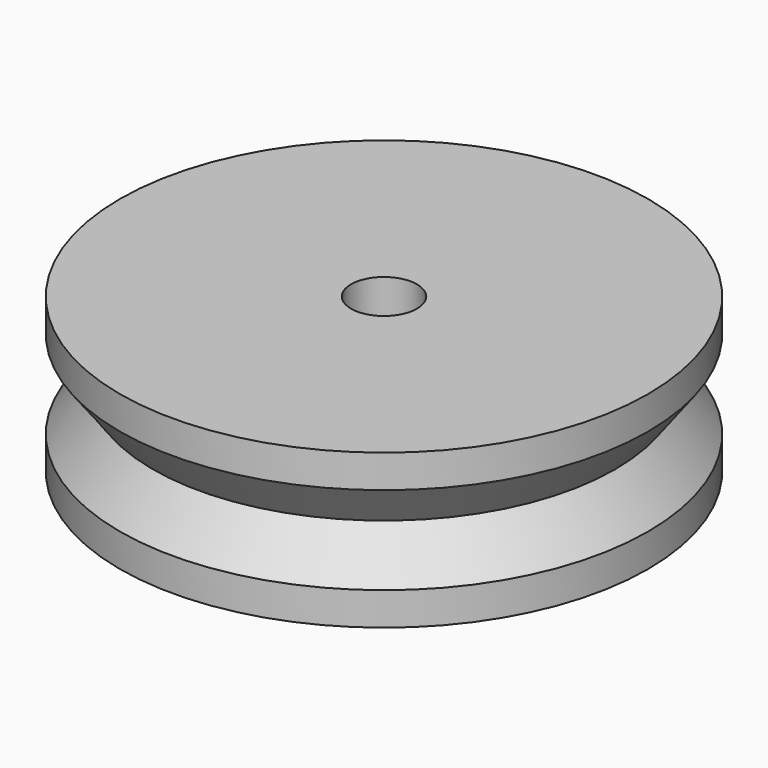
from build123d import *


with BuildPart() as f1:
    # F0 (on Front) → F1 (revolve)
    with BuildSketch(Plane.XZ):
        Polygon((-10.5, 0), (-1.5, 0), (-1.5, 3.5), (-12, 3.5), (-12, 2), align=None)
        Polygon((-1.5, -3.5), (-1.5, 0), (-10.5, 0), (-12, -2), (-12, -3.5), align=None)
    revolve(axis=Axis((0, 0, 1), (0, 0, 1)))


solid = f1.part
